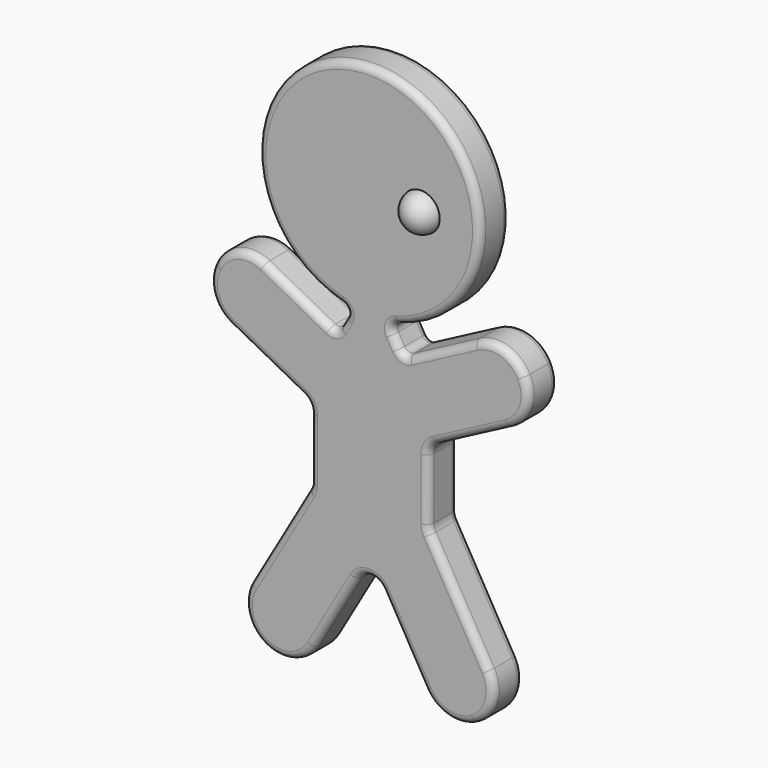
from build123d import *

# Parameters (mm, degrees)
F1_DEPTH = 6.35
F2_R     = 1.27


with BuildPart() as f1:
    # F0 (on Front) → F1 (new body)
    with BuildSketch(Plane.XZ):
        with BuildLine():
            ThreePointArc((4.046233319, 57.4015393629), (3.9741628406, 58.5259237606), (4.8244552329, 59.2651377182))
            ThreePointArc((4.8244552329, 59.2651377182), (0, 96.744113048), (-4.8244552329, 59.2651377182))
            ThreePointArc((-4.8244552329, 59.2651377182), (-3.9741628406, 58.5259237606), (-4.046233319, 57.4015393629))
            Line((-4.046233319, 57.4015393629), (-5.1044963377, 55.5685740468))
            ThreePointArc((-5.1044963377, 55.5685740468), (-5.8515896161, 54.9835490065), (-6.7956108687, 55.0796038826))
            Line((-6.7956108687, 55.0796038826), (-18.0786718068, 61.0150356363))
            ThreePointArc((-18.0786718068, 61.0150356363), (-22.9183899763, 61.4594472367), (-26.6548339694, 58.3514961563))
            ThreePointArc((-26.6548339694, 58.3514961563), (-27.0992455698, 53.5117779868), (-23.9912944894, 49.7753339938))
            Line((-23.9912944894, 49.7753339938), (-11.5174754635, 43.2135063175))
            ThreePointArc((-11.5174754635, 43.2135063175), (-10.5256940966, 42.2785754477), (-10.16, 40.965565989))
            Line((-10.16, 40.965565989), (-10.16, 30.48))
            ThreePointArc((-10.16, 30.48), (-10.2465484012, 29.8225996254), (-10.5002954744, 29.21))
            Line((-10.5002954744, 29.21), (-20.5235226281, 11.849261314))
            ThreePointArc((-20.5235226281, 11.849261314), (-21.157890311, 7.0307603776), (-18.199261314, 3.175))
            ThreePointArc((-18.199261314, 3.175), (-13.3807603776, 2.5406323171), (-9.525, 5.499261314))
            Line((-9.525, 5.499261314), (-2.1997045256, 18.1870452561))
            ThreePointArc((-2.1997045256, 18.1870452561), (0, 19.4570452561), (2.1997045256, 18.1870452561))
            Line((2.1997045256, 18.1870452561), (9.525, 5.499261314))
            ThreePointArc((9.525, 5.499261314), (13.3807603776, 2.5406323171), (18.199261314, 3.175))
            ThreePointArc((18.199261314, 3.175), (21.157890311, 7.0307603776), (20.5235226281, 11.849261314))
            Line((20.5235226281, 11.849261314), (10.5002954744, 29.21))
            ThreePointArc((10.5002954744, 29.21), (10.2465484012, 29.8225996254), (10.16, 30.48))
            Line((10.16, 30.48), (10.16, 40.965565989))
            ThreePointArc((10.16, 40.965565989), (10.5256940966, 42.2785754477), (11.5174754635, 43.2135063175))
            Line((11.5174754635, 43.2135063175), (23.9912944894, 49.7753339938))
            ThreePointArc((23.9912944894, 49.7753339938), (27.0992455698, 53.5117779868), (26.6548339694, 58.3514961563))
            ThreePointArc((26.6548339694, 58.3514961563), (22.9183899763, 61.4594472367), (18.0786718068, 61.0150356363))
            Line((18.0786718068, 61.0150356363), (6.7956108687, 55.0796038826))
            ThreePointArc((6.7956108687, 55.0796038826), (5.8515896161, 54.9835490065), (5.1044963377, 55.5685740468))
            Line((5.1044963377, 55.5685740468), (4.046233319, 57.4015393629))
        make_face()
    extrude(amount=F1_DEPTH)

    # F2
    f2_edges = [f1.edges().sort_by_distance(p)[0] for p in [
        (15.511909, -6.35, 20.529631),
        (10.246548, -6.35, 29.8226),
        (10.16, -6.35, 35.722783),
        (10.525694, -6.35, 42.278575),
        (17.754385, -6.35, 46.49442),
        (26.654834, -6.35, 58.351496),
        (12.437141, -6.35, 58.04732),
        (5.85159, -6.35, 54.983549),
        (4.575365, -6.35, 56.485057),
        (3.974163, -6.35, 58.525924),
        (0, -6.35, 96.744113),
        (-3.974163, -6.35, 58.525924),
        (-4.575365, -6.35, 56.485057),
        (-5.85159, -6.35, 54.983549),
        (-12.437141, -6.35, 58.04732),
        (-26.654834, -6.35, 58.351496),
        (-17.754385, -6.35, 46.49442),
        (-10.525694, -6.35, 42.278575),
        (-10.16, -6.35, 35.722783),
        (-10.246548, -6.35, 29.8226),
        (-15.511909, -6.35, 20.529631),
        (-18.199261, -6.35, 3.175),
        (-5.862352, -6.35, 11.843153),
        (0, -6.35, 19.457045),
        (5.862352, -6.35, 11.843153),
        (18.199261, -6.35, 3.175),
        (15.511909, 0, 20.529631),
        (10.246548, 0, 29.8226),
        (10.16, 0, 35.722783),
        (10.525694, 0, 42.278575),
        (17.754385, 0, 46.49442),
        (26.654834, 0, 58.351496),
        (12.437141, 0, 58.04732),
        (5.85159, 0, 54.983549),
        (4.575365, 0, 56.485057),
        (3.974163, 0, 58.525924),
        (0, 0, 96.744113),
        (-3.974163, 0, 58.525924),
        (-4.575365, 0, 56.485057),
        (-5.85159, 0, 54.983549),
        (-12.437141, 0, 58.04732),
        (-26.654834, 0, 58.351496),
        (-17.754385, 0, 46.49442),
        (-10.525694, 0, 42.278575),
        (-10.16, 0, 35.722783),
        (-10.246548, 0, 29.8226),
        (-15.511909, 0, 20.529631),
        (-18.199261, 0, 3.175),
        (-5.862352, 0, 11.843153),
        (0, 0, 19.457045),
        (5.862352, 0, 11.843153),
        (18.199261, 0, 3.175),
    ]]
    fillet(f2_edges, radius=F2_R)

    # F7 (on line) → F8 (revolve)
    with BuildSketch(Plane(origin=(8.89, 0, 0), x_dir=(0, -1, 0), z_dir=(-1, 0, 0))):
        with BuildLine():
            ThreePointArc((9.2636264657, 77.694113048), (7.9248046517, 80.3246692519), (5.0101246152, 80.7904053104))
            Line((5.0101246152, 80.7904053104), (5.0101246152, 77.694113048))
            Line((5.0101246152, 77.694113048), (9.2636264657, 77.694113048))
        make_face()
    revolve(axis=Axis((8.89, -7.1368755405, 77.694113048), (0, -1, 0)))


solid = f1.part
